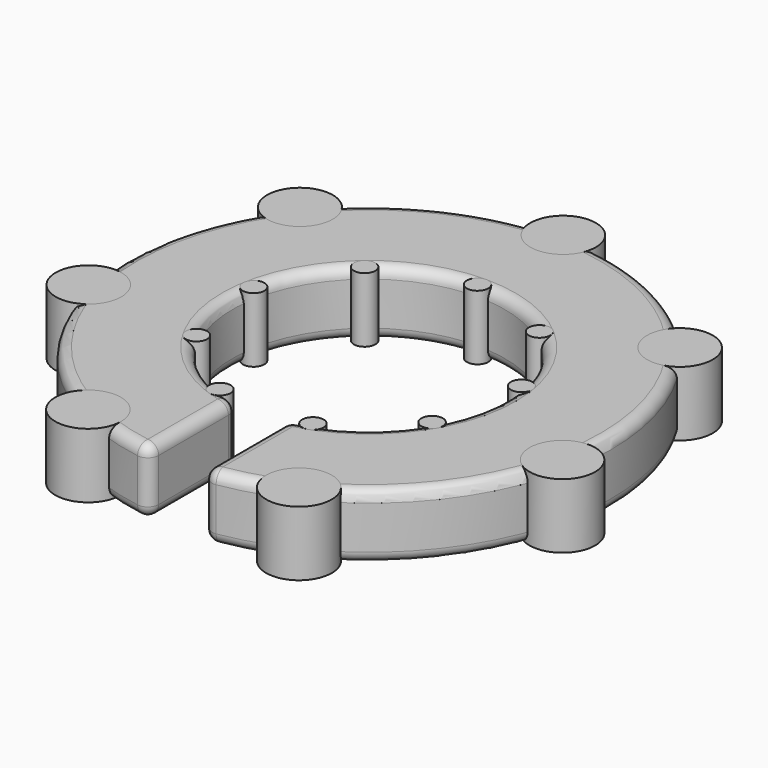
from build123d import *

# Parameters (mm, degrees)
F0_R     = 28.575
F0_R_2   = 16
F1_DEPTH = 7.62
F2_R     = 1.263701719
F3_DEPTH = 7.62
F2_R_2   = 3.8604948571
F4_COUNT = 7
F5_COUNT = 9
F7_DEPTH = 25.4
F8_R     = 1.27


with BuildPart() as f1:
    # F0 (on Top) → F1 (new body)
    with BuildSketch(Plane.XY):
        Circle(F0_R)
        Circle(F0_R_2, mode=Mode.SUBTRACT)
    extrude(amount=-F1_DEPTH)

    # F6 (on face) → F7 (cut)
    with BuildSketch(Plane(origin=(0, 0, -7.62), x_dir=(1, 0, 0), z_dir=(0, 0, -1))):
        with BuildLine():
            Line((3.1414623372, 15.6885695455), (3.1414623372, 28.4017928903))
            ThreePointArc((3.1414623372, 28.4017928903), (0, 28.575), (-3.1414623372, 28.4017928903))
            Line((-3.1414623372, 28.4017928903), (-3.1414623372, 15.6885695455))
            ThreePointArc((-3.1414623372, 15.6885695455), (0, 16), (3.1414623372, 15.6885695455))
        make_face()
    extrude(amount=-F7_DEPTH, mode=Mode.SUBTRACT)

    # F8
    f8_edges = [f1.edges().sort_by_distance(p)[0] for p in [
        (0, 28.575, -7.62),
        (-3.141462, -22.045181, -7.62),
        (0, 16, -7.62),
        (3.141462, -22.045181, -7.62),
        (3.141462, -22.045181, 0),
        (0, 28.575, 0),
        (-3.141462, -22.045181, 0),
        (0, 16, 0),
        (3.141462, -28.401793, -3.81),
        (3.141462, -15.68857, -3.81),
        (-3.141462, -15.68857, -3.81),
        (-3.141462, -28.401793, -3.81),
    ]]
    fillet(f8_edges, radius=F8_R)


with BuildPart() as f3:
    # F2 (on face) → F3 (new body)
    with BuildSketch(Plane.XY):
        with Locations((0, 16)):
            Circle(F2_R)
    extrude(amount=-F3_DEPTH)


with BuildPart() as f3b:
    # F2 (on face) → F3, piece 2 (new body)
    with BuildSketch(Plane.XY):
        with Locations((0, 28.575)):
            Circle(F2_R_2)
    extrude(amount=-F3_DEPTH)


with BuildPart() as f4_1:
    # F4: instance of F3b
    add(f3b.part.rotate(Axis((0, 0, 0), (0, 0, 1)), 1 * 360 / F4_COUNT))


with BuildPart() as f4_2:
    # F4: instance of F3b
    add(f3b.part.rotate(Axis((0, 0, 0), (0, 0, 1)), 2 * 360 / F4_COUNT))


with BuildPart() as f4_3:
    # F4: instance of F3b
    add(f3b.part.rotate(Axis((0, 0, 0), (0, 0, 1)), 3 * 360 / F4_COUNT))


with BuildPart() as f4_4:
    # F4: instance of F3b
    add(f3b.part.rotate(Axis((0, 0, 0), (0, 0, 1)), 4 * 360 / F4_COUNT))


with BuildPart() as f4_5:
    # F4: instance of F3b
    add(f3b.part.rotate(Axis((0, 0, 0), (0, 0, 1)), 5 * 360 / F4_COUNT))


with BuildPart() as f4_6:
    # F4: instance of F3b
    add(f3b.part.rotate(Axis((0, 0, 0), (0, 0, 1)), 6 * 360 / F4_COUNT))


with BuildPart() as f5_1:
    # F5: instance of F3
    add(f3.part.rotate(Axis((0, 0, 0), (0, 0, 1)), 1 * 360 / F5_COUNT))


with BuildPart() as f5_2:
    # F5: instance of F3
    add(f3.part.rotate(Axis((0, 0, 0), (0, 0, 1)), 2 * 360 / F5_COUNT))


with BuildPart() as f5_3:
    # F5: instance of F3
    add(f3.part.rotate(Axis((0, 0, 0), (0, 0, 1)), 3 * 360 / F5_COUNT))


with BuildPart() as f5_4:
    # F5: instance of F3
    add(f3.part.rotate(Axis((0, 0, 0), (0, 0, 1)), 4 * 360 / F5_COUNT))


with BuildPart() as f5_5:
    # F5: instance of F3
    add(f3.part.rotate(Axis((0, 0, 0), (0, 0, 1)), 5 * 360 / F5_COUNT))


with BuildPart() as f5_6:
    # F5: instance of F3
    add(f3.part.rotate(Axis((0, 0, 0), (0, 0, 1)), 6 * 360 / F5_COUNT))


with BuildPart() as f5_7:
    # F5: instance of F3
    add(f3.part.rotate(Axis((0, 0, 0), (0, 0, 1)), 7 * 360 / F5_COUNT))


with BuildPart() as f5_8:
    # F5: instance of F3
    add(f3.part.rotate(Axis((0, 0, 0), (0, 0, 1)), 8 * 360 / F5_COUNT))


solid = Compound([f1.part, f3.part, f3b.part, f4_1.part, f4_2.part, f4_3.part, f4_4.part, f4_5.part, f4_6.part, f5_1.part, f5_2.part, f5_3.part, f5_4.part, f5_5.part, f5_6.part, f5_7.part, f5_8.part])
